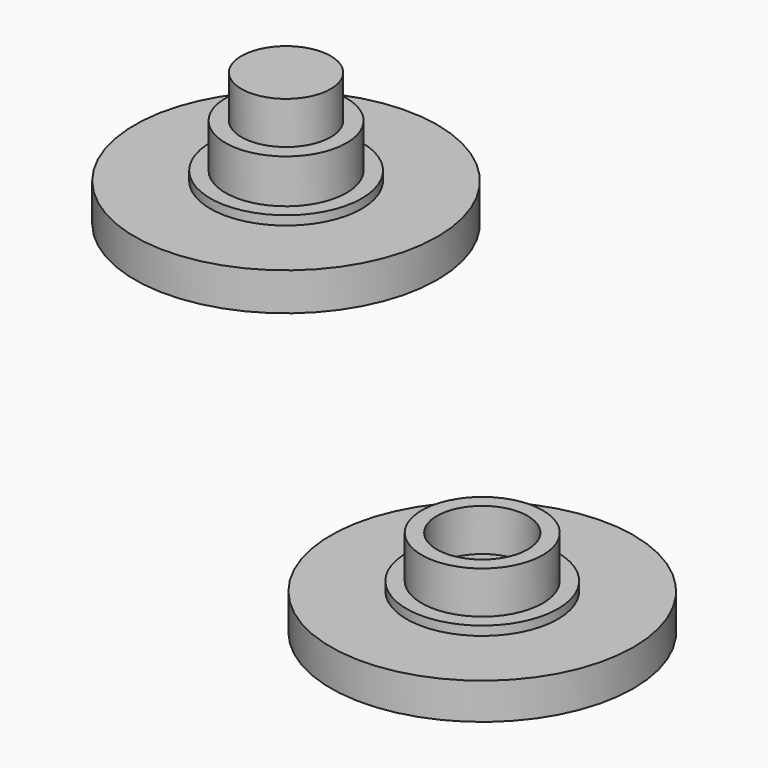
from build123d import *

# Parameters (mm, degrees)
F0_R      = 10
F1_DEPTH  = 2.4
F2_R      = 4
F3_DEPTH  = 3.4
F4_T      = -1
F5_R      = 5
F6_DEPTH  = 0.6
F7_R      = 10
F8_DEPTH  = 2.5
F9_R      = 4
F10_DEPTH = 3.5
F11_R     = 2.95
F12_DEPTH = 2.8
F13_R     = 5
F13_R_2   = 4
F14_DEPTH = 0.6


with BuildPart() as f1:
    # F0 (on Top) → F1 (new body)
    with BuildSketch(Plane.XY):
        Circle(F0_R)
    extrude(amount=F1_DEPTH)

    # F2 (on face) → F3 (join)
    with BuildSketch(Plane.XY.offset(2.4)):
        Circle(F2_R)
    extrude(amount=F3_DEPTH)

    # F4
    f4_openings = [f1.faces().sort_by_distance(p)[0] for p in [
        (0, 0, 5.8),
    ]]
    offset(amount=F4_T, openings=f4_openings, kind=Kind.INTERSECTION)

    # F5 (on face) → F6 (join)
    with BuildSketch(Plane.XY.offset(2.4)):
        Circle(F5_R)
    extrude(amount=F6_DEPTH)


with BuildPart() as f8:
    # F7 (on Top) → F8 (new body)
    with BuildSketch(Plane.XY):
        with Locations((-36.4144779742, 29.3206144124)):
            Circle(F7_R)
    extrude(amount=F8_DEPTH)

    # F9 (on face) → F10 (join)
    with BuildSketch(Plane.XY.offset(2.5)):
        with Locations((-36.4144779742, 29.3206144124)):
            Circle(F9_R)
    extrude(amount=F10_DEPTH)

    # F11 (on face) → F12 (join)
    with BuildSketch(Plane.XY.offset(6)):
        with Locations((-36.4144779742, 29.3206144124)):
            Circle(F11_R)
    extrude(amount=F12_DEPTH)

    # F13 (on face) + F11 (on face) + F9 (on face) + F7 (on Top) → F14 (join)
    with BuildSketch(Plane.XY.offset(2.5)):
        with Locations((-36.4144779742, 29.3206144124)):
            Circle(F13_R)
        with Locations((-36.4144779742, 29.3206144124)):
            Circle(F13_R_2, mode=Mode.SUBTRACT)
    with BuildSketch(Plane.XY.offset(6)):
        with Locations((-36.4144779742, 29.3206144124)):
            Circle(F11_R)
    with BuildSketch(Plane.XY.offset(2.5)):
        with Locations((-36.4144779742, 29.3206144124)):
            Circle(F9_R)
    with BuildSketch(Plane.XY):
        with Locations((-36.4144779742, 29.3206144124)):
            Circle(F7_R)
    extrude(amount=F14_DEPTH)


solid = Compound([f1.part, f8.part])
